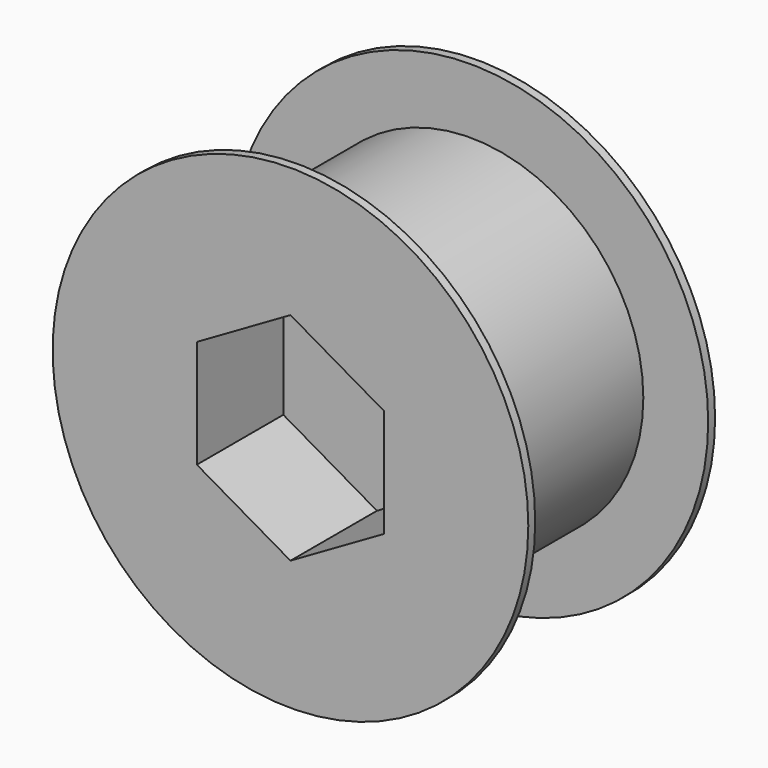
from build123d import *

# Parameters (mm, degrees)
F0_R      = 5.08
F1_DEPTH  = 6.35
F2_R      = 6.985
F3_DEPTH  = 0.254
F4_R      = 6.985
F5_DEPTH  = 0.254
F7_DEPTH  = 3.175
F8_R      = 5.715
F9_DEPTH  = 0.508
F11_DEPTH = 3.175


with BuildPart() as f1:
    # F0 (on Front) → F1 (new body)
    with BuildSketch(Plane.XZ):
        Circle(F0_R)
    extrude(amount=F1_DEPTH)

    # F2 (on face) → F3 (join)
    with BuildSketch(Plane.XZ.offset(6.35)):
        Circle(F2_R)
    extrude(amount=F3_DEPTH)

    # F4 (on Front) → F5 (join)
    with BuildSketch(Plane.XZ):
        Circle(F4_R)
    extrude(amount=-F5_DEPTH)

    # F6 (on face) → F7 (cut)
    with BuildSketch(Plane.XZ.offset(6.604)):
        Polygon((0, 3.175), (-2.749630657, 1.5875), (-2.749630657, -1.5875), (0, -3.175), (2.749630657, -1.5875), (2.749630657, 1.5875), align=None)
    extrude(amount=-F7_DEPTH, mode=Mode.SUBTRACT)

    # F8 (on face) → F9 (join)
    with BuildSketch(Plane(origin=(0, 0.254, 0), x_dir=(-1, 0, 0), z_dir=(0, 1, 0))):
        Circle(F8_R)
    extrude(amount=F9_DEPTH)

    # F10 (on face) → F11 (cut)
    with BuildSketch(Plane(origin=(0, 0.762, 0), x_dir=(-1, 0, 0), z_dir=(0, 1, 0))):
        Polygon((-3.175, 1.8330871047), (-3.175, -1.8330871047), (0, -3.6661742094), (3.175, -1.8330871047), (3.175, 1.8330871047), (0, 3.6661742094), align=None)
    extrude(amount=-F11_DEPTH, mode=Mode.SUBTRACT)


solid = f1.part
